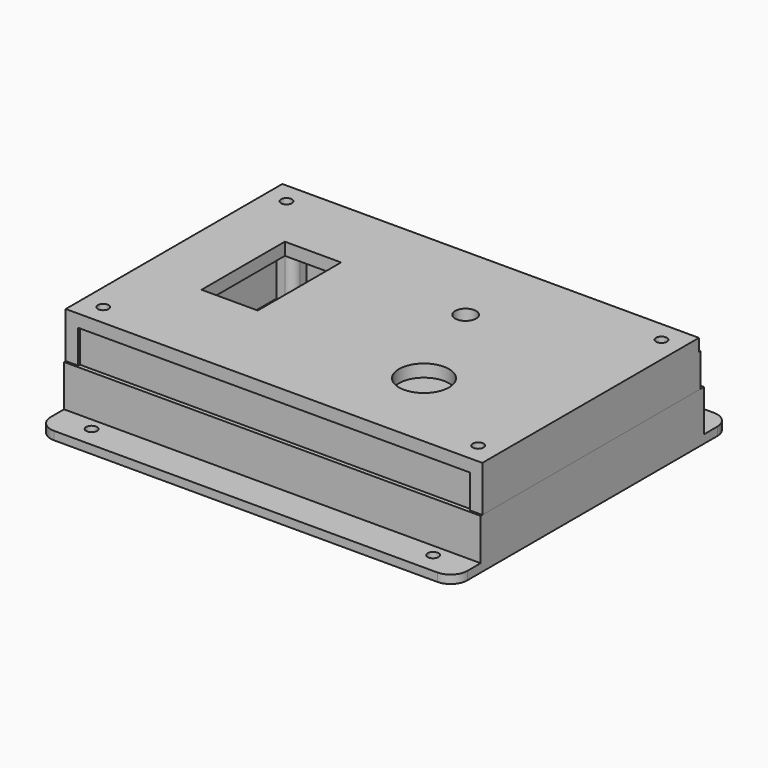
from build123d import *

# Parameters (mm, degrees)
SKETCH001_W             = 100
SKETCH001_H             = 12
PAD001_DEPTH            = 3
SKETCH002_W             = 100
SKETCH002_H             = 12
PAD002_DEPTH            = 3
SKETCH003_W             = 65
SKETCH003_H             = 12
PAD003_DEPTH            = 3
SKETCH004_W             = 65
SKETCH004_H             = 12
PAD004_DEPTH            = 3
SKETCH005_R             = 1.3
PAD005_DEPTH            = 2
SKETCH006_R             = 1.3
PAD006_DEPTH            = 2
BODY006_PLACEMENT_ANGLE = 180
SKETCH007_R             = 0.75
PAD007_DEPTH            = 12
SKETCH008_R             = 0.75
PAD008_DEPTH            = 12
BODY008_PLACEMENT_ANGLE = 90
SKETCH009_R             = 0.75
PAD009_DEPTH            = 12
BODY009_PLACEMENT_ANGLE = 90
SKETCH010_R             = 0.75
PAD010_DEPTH            = 12
BODY010_PLACEMENT_ANGLE = 180
SKETCH011_W             = 18
SKETCH011_H             = 6
PAD011_DEPTH            = 3
SKETCH012_R             = 2.5
PAD012_DEPTH            = 3
SKETCH013_W             = 5
SKETCH013_H             = 5
SKETCH013_R             = 1.25
PAD013_DEPTH            = 2
SKETCH014_W             = 5
SKETCH014_H             = 5
SKETCH014_R             = 1.25
PAD014_DEPTH            = 2
SKETCH015_W             = 5
SKETCH015_H             = 5
SKETCH015_R             = 1.25
PAD015_DEPTH            = 2
SKETCH016_W             = 5
SKETCH016_H             = 5
SKETCH016_R             = 1.25
PAD016_DEPTH            = 2
SKETCH017_W             = 5
SKETCH017_H             = 5
SKETCH017_R             = 1.25
PAD017_DEPTH            = 2
SKETCH_W                = 100
SKETCH_H                = 65
PAD_DEPTH               = 2
SKETCH022_W             = 100
SKETCH022_H             = 8
PAD022_DEPTH            = 3
BODY022_PLACEMENT_ANGLE = 90
SKETCH020_W             = 65
SKETCH020_H             = 8
PAD020_DEPTH            = 3
SKETCH019_W             = 65
SKETCH019_H             = 8
PAD019_DEPTH            = 3
SKETCH018_W             = 100
SKETCH018_H             = 65
SKETCH018_R             = 1.3
SKETCH018_R_2           = 6
SKETCH018_R_3           = 2.5
SKETCH018_W_2           = 13.5
SKETCH018_H_2           = 25
PAD018_DEPTH            = 3
SKETCH021_W             = 100
SKETCH021_H             = 8
PAD021_DEPTH            = 3
BODY021_PLACEMENT_ANGLE = 90


with BuildPart() as body001:
    # Sketch001 → Pad001 (new body)
    with BuildSketch(Plane.XZ):
        with Locations((0, 6)):
            Rectangle(SKETCH001_W, SKETCH001_H)
    extrude(amount=PAD001_DEPTH)


with BuildPart() as body001_1:
    # Body001 placement: moved
    add(body001.part.moved(Location((0, -31, 0))))


with BuildPart() as body002:
    # Sketch002 → Pad002 (new body)
    with BuildSketch(Plane.XZ):
        with Locations((0, 6)):
            Rectangle(SKETCH002_W, SKETCH002_H)
    extrude(amount=PAD002_DEPTH)


with BuildPart() as body002_1:
    # Body002 placement: moved
    add(body002.part.moved(Location((0, 33, 0))))


with BuildPart() as body003:
    # Sketch003 → Pad003 (new body)
    with BuildSketch(Plane.YZ):
        with Locations((0, 6)):
            Rectangle(SKETCH003_W, SKETCH003_H)
    extrude(amount=PAD003_DEPTH)


with BuildPart() as body003_1:
    # Body003 placement: moved
    add(body003.part.moved(Location((47, 0, 0))))


with BuildPart() as body004:
    # Sketch004 → Pad004 (new body)
    with BuildSketch(Plane.YZ):
        with Locations((0, 6)):
            Rectangle(SKETCH004_W, SKETCH004_H)
    extrude(amount=PAD004_DEPTH)


with BuildPart() as body004_1:
    # Body004 placement: moved
    add(body004.part.moved(Location((-50, 0, 0))))


with BuildPart() as body005:
    # Sketch005 → Pad005 (new body)
    with BuildSketch(Plane.XY):
        with BuildLine():
            Line((-46, 11), (46, 11))
            ThreePointArc((50, 7), (48.828427, 9.828427), (46, 11))
            Line((50, 7), (50, 0))
            Line((50, 0), (-50, 0))
            Line((-50, 0), (-50, 7))
            ThreePointArc((-46, 11), (-48.828427, 9.828427), (-50, 7))
        make_face()
        with Locations((-41, 6)):
            Circle(SKETCH005_R, mode=Mode.SUBTRACT)
        with Locations((41, 6)):
            Circle(SKETCH005_R, mode=Mode.SUBTRACT)
    extrude(amount=PAD005_DEPTH)


with BuildPart() as body005_1:
    # Body005 placement: moved
    add(body005.part.moved(Location((0, 30, 0))))


with BuildPart() as body006:
    # Sketch006 → Pad006 (new body)
    with BuildSketch(Plane.XY):
        with BuildLine():
            Line((-46, 11), (46, 11))
            ThreePointArc((50, 7), (48.828427, 9.828427), (46, 11))
            Line((50, 7), (50, 0))
            Line((50, 0), (-50, 0))
            Line((-50, 0), (-50, 7))
            ThreePointArc((-46, 11), (-48.828427, 9.828427), (-50, 7))
        make_face()
        with Locations((-41, 6)):
            Circle(SKETCH006_R, mode=Mode.SUBTRACT)
        with Locations((41, 6)):
            Circle(SKETCH006_R, mode=Mode.SUBTRACT)
    extrude(amount=PAD006_DEPTH)


with BuildPart() as body006_1:
    # Body006 placement: moved
    add(body006.part.moved(Location((0, -31, 0))).rotate(Axis((0, -31, 0), (0, 0, 1)), BODY006_PLACEMENT_ANGLE))


with BuildPart() as body007:
    # Sketch007 → Pad007 (new body)
    with BuildSketch(Plane.XY):
        with BuildLine():
            Line((0, 4), (2, 4))
            ThreePointArc((4, 2), (3.414214, 3.414214), (2, 4))
            Line((4, 2), (4, 0))
            Line((4, 0), (0, 0))
            Line((0, 0), (0, 4))
        make_face()
        with Locations((2, 2)):
            Circle(SKETCH007_R, mode=Mode.SUBTRACT)
    extrude(amount=PAD007_DEPTH)


with BuildPart() as body007_1:
    # Body007 placement: moved
    add(body007.part.moved(Location((-47, -31, 0))))


with BuildPart() as body008:
    # Sketch008 → Pad008 (new body)
    with BuildSketch(Plane.XY):
        with BuildLine():
            Line((0, 4), (2, 4))
            ThreePointArc((4, 2), (3.414214, 3.414214), (2, 4))
            Line((4, 2), (4, 0))
            Line((4, 0), (0, 0))
            Line((0, 0), (0, 4))
        make_face()
        with Locations((2, 2)):
            Circle(SKETCH008_R, mode=Mode.SUBTRACT)
    extrude(amount=PAD008_DEPTH)


with BuildPart() as body008_1:
    # Body008 placement: moved
    add(body008.part.moved(Location((-47, 30, 0))).rotate(Axis((-47, 30, 0), (0, 0, -1)), BODY008_PLACEMENT_ANGLE))


with BuildPart() as body009:
    # Sketch009 → Pad009 (new body)
    with BuildSketch(Plane.XY):
        with BuildLine():
            Line((0, 4), (2, 4))
            ThreePointArc((4, 2), (3.414214, 3.414214), (2, 4))
            Line((4, 2), (4, 0))
            Line((4, 0), (0, 0))
            Line((0, 0), (0, 4))
        make_face()
        with Locations((2, 2)):
            Circle(SKETCH009_R, mode=Mode.SUBTRACT)
    extrude(amount=PAD009_DEPTH)


with BuildPart() as body009_1:
    # Body009 placement: moved
    add(body009.part.moved(Location((47, -31, 0))).rotate(Axis((47, -31, 0), (0, 0, 1)), BODY009_PLACEMENT_ANGLE))


with BuildPart() as body010:
    # Sketch010 → Pad010 (new body)
    with BuildSketch(Plane.XY):
        with BuildLine():
            Line((0, 4), (2, 4))
            ThreePointArc((4, 2), (3.414214, 3.414214), (2, 4))
            Line((4, 2), (4, 0))
            Line((4, 0), (0, 0))
            Line((0, 0), (0, 4))
        make_face()
        with Locations((2, 2)):
            Circle(SKETCH010_R, mode=Mode.SUBTRACT)
    extrude(amount=PAD010_DEPTH)


with BuildPart() as body010_1:
    # Body010 placement: moved
    add(body010.part.moved(Location((47, 30, 0))).rotate(Axis((47, 30, 0), (0, 0, 1)), BODY010_PLACEMENT_ANGLE))


with BuildPart() as relay:
    # Sketch011 → Pad011 (new body)
    with BuildSketch(Plane.YZ):
        Rectangle(SKETCH011_W, SKETCH011_H)
    extrude(amount=PAD011_DEPTH)


with BuildPart() as relay_1:
    # Body011 placement: moved
    add(relay.part.moved(Location((47, 11, 7))))


with BuildPart() as body012:
    # Sketch012 → Pad012 (new body)
    with BuildSketch(Plane.YZ):
        with Locations((-15, 7)):
            Circle(SKETCH012_R)
    extrude(amount=PAD012_DEPTH)


with BuildPart() as body012_1:
    # Body012 placement: moved
    add(body012.part.moved(Location((47, 0, 0))))


with BuildPart() as body013:
    # Sketch013 → Pad013 (new body)
    with BuildSketch(Plane.XY):
        Rectangle(SKETCH013_W, SKETCH013_H)
        Circle(SKETCH013_R, mode=Mode.SUBTRACT)
    extrude(amount=PAD013_DEPTH)


with BuildPart() as body013_1:
    # Body013 placement: moved
    add(body013.part.moved(Location((3, 1, 0))))


with BuildPart() as body014:
    # Sketch014 → Pad014 (new body)
    with BuildSketch(Plane.XY):
        Rectangle(SKETCH014_W, SKETCH014_H)
        Circle(SKETCH014_R, mode=Mode.SUBTRACT)
    extrude(amount=PAD014_DEPTH)


with BuildPart() as body014_1:
    # Body014 placement: moved
    add(body014.part.moved(Location((39, 0, 0))))


with BuildPart() as body015:
    # Sketch015 → Pad015 (new body)
    with BuildSketch(Plane.XY):
        Rectangle(SKETCH015_W, SKETCH015_H)
        Circle(SKETCH015_R, mode=Mode.SUBTRACT)
    extrude(amount=PAD015_DEPTH)


with BuildPart() as body015_1:
    # Body015 placement: moved
    add(body015.part.moved(Location((3, 21, 0))))


with BuildPart() as body016:
    # Sketch016 → Pad016 (new body)
    with BuildSketch(Plane.XY):
        Rectangle(SKETCH016_W, SKETCH016_H)
        Circle(SKETCH016_R, mode=Mode.SUBTRACT)
    extrude(amount=PAD016_DEPTH)


with BuildPart() as body016_1:
    # Body016 placement: moved
    add(body016.part.moved(Location((39, 21, 0))))


with BuildPart() as body017:
    # Sketch017 → Pad017 (new body)
    with BuildSketch(Plane.XY):
        Rectangle(SKETCH017_W, SKETCH017_H)
        Circle(SKETCH017_R, mode=Mode.SUBTRACT)
    extrude(amount=PAD017_DEPTH)


with BuildPart() as body017_1:
    # Body017 placement: moved
    add(body017.part.moved(Location((19, 11, 0))))


with BuildPart() as fusion:
    # Sketch → Pad (new body)
    with BuildSketch(Plane.XY):
        Rectangle(SKETCH_W, SKETCH_H)
    extrude(amount=PAD_DEPTH)

    # Fusion: union Body001, Body002, Body003, Body004, Body005, Body006, Body007, Body008, Body009, Body010, Relay, Body012, Body013, Body014, Body015, Body016, Body017
    add(body001_1.part)
    add(body002_1.part)
    add(body003_1.part)
    add(body004_1.part)
    add(body005_1.part)
    add(body006_1.part)
    add(body007_1.part)
    add(body008_1.part)
    add(body009_1.part)
    add(body010_1.part)
    add(relay_1.part)
    add(body012_1.part)
    add(body013_1.part)
    add(body014_1.part)
    add(body015_1.part)
    add(body016_1.part)
    add(body017_1.part)


with BuildPart() as fusion_1:
    # Fusion placement: moved
    add(fusion.part.moved(Location((0, 0, -12))))


with BuildPart() as body022:
    # Sketch022 → Pad022 (new body)
    with BuildSketch(Plane.YZ):
        Rectangle(SKETCH022_W, SKETCH022_H)
    extrude(amount=PAD022_DEPTH)


with BuildPart() as body022_1:
    # Body022 placement: moved
    add(body022.part.moved(Location((0, -30, 4))).rotate(Axis((0, -30, 4), (0, 0, -1)), BODY022_PLACEMENT_ANGLE))


with BuildPart() as body020:
    # Sketch020 → Pad020 (new body)
    with BuildSketch(Plane.YZ):
        Rectangle(SKETCH020_W, SKETCH020_H)
    extrude(amount=PAD020_DEPTH)


with BuildPart() as body020_1:
    # Body020 placement: moved
    add(body020.part.moved(Location((-50, -1, 4))))


with BuildPart() as body019:
    # Sketch019 → Pad019 (new body)
    with BuildSketch(Plane.YZ):
        Rectangle(SKETCH019_W, SKETCH019_H)
    extrude(amount=PAD019_DEPTH)


with BuildPart() as body019_1:
    # Body019 placement: moved
    add(body019.part.moved(Location((47, -1, 4))))


with BuildPart() as top:
    # Sketch018 → Pad018 (new body)
    with BuildSketch(Plane.XY):
        Rectangle(SKETCH018_W, SKETCH018_H)
        with Locations((-45, 27.5)):
            Circle(SKETCH018_R, mode=Mode.SUBTRACT)
        with Locations((45, 27.5)):
            Circle(SKETCH018_R, mode=Mode.SUBTRACT)
        with Locations((-45, -27.5)):
            Circle(SKETCH018_R, mode=Mode.SUBTRACT)
        with Locations((45, -27.5)):
            Circle(SKETCH018_R, mode=Mode.SUBTRACT)
        with Locations((20, -12.5)):
            Circle(SKETCH018_R_2, mode=Mode.SUBTRACT)
        with Locations((10, 12.5)):
            Circle(SKETCH018_R_3, mode=Mode.SUBTRACT)
        with Locations((-28.25, 2)):
            Rectangle(SKETCH018_W_2, SKETCH018_H_2, mode=Mode.SUBTRACT)
    extrude(amount=PAD018_DEPTH)


with BuildPart() as top_1:
    # Body018 placement: moved
    add(top.part.moved(Location((0, -1, 8))))


with BuildPart() as fusion001:
    # Sketch021 → Pad021 (new body)
    with BuildSketch(Plane.YZ):
        Rectangle(SKETCH021_W, SKETCH021_H)
    extrude(amount=PAD021_DEPTH)


with BuildPart() as fusion001_1:
    # Body021 placement: moved
    add(fusion001.part.moved(Location((0, 32, 4))).rotate(Axis((0, 32, 4), (0, 0, -1)), BODY021_PLACEMENT_ANGLE))

    # Fusion001: union Body022, Body020, Body019, top
    add(body022_1.part)
    add(body020_1.part)
    add(body019_1.part)
    add(top_1.part)


solid = Compound([fusion_1.part, fusion001_1.part])
